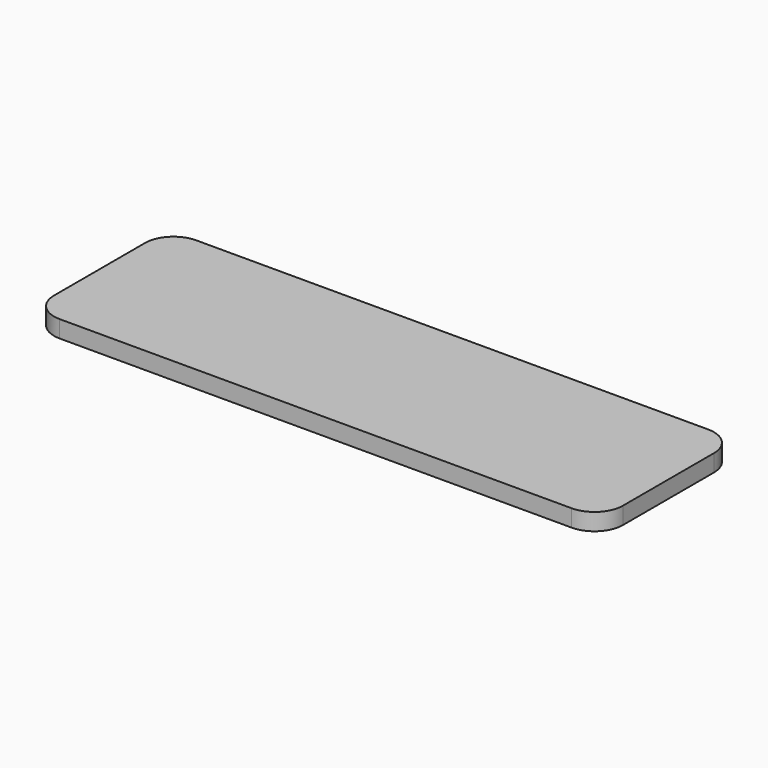
from build123d import *

# Parameters (mm, degrees)
BOX_W     = 1
BOX_H     = 0.3
BOX_DEPTH = 0.03
FILLET_R  = 0.05


with BuildPart() as part:
    # Box → Box (new body)
    with BuildSketch(Plane.XY):
        with Locations((0.5, 0.15)):
            Rectangle(BOX_W, BOX_H)
    extrude(amount=BOX_DEPTH)

    # Fillet
    fillet_edges = [part.edges().sort_by_distance(p)[0] for p in [
        (0, 0, 0.015),
        (0, 0.3, 0.015),
        (1, 0, 0.015),
        (1, 0.3, 0.015),
    ]]
    fillet(fillet_edges, radius=FILLET_R)


solid = part.part
